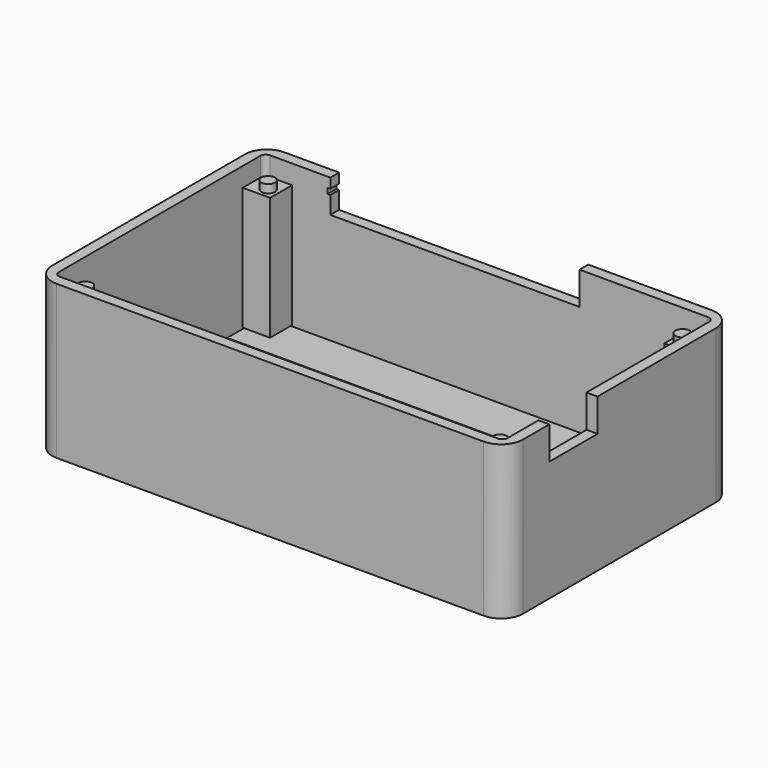
from build123d import *

# Parameters (mm, degrees)
BOX004_W          = 5
BOX004_H          = 5
BOX004_DEPTH      = 22.5
CYLINDER_R        = 1.25
CYLINDER_DEPTH    = 2
BOX006_W          = 5
BOX006_H          = 5
BOX006_DEPTH      = 22.5
BOX005_W          = 5
BOX005_H          = 5
BOX005_DEPTH      = 22.5
CYLINDER001_R     = 1.25
CYLINDER001_DEPTH = 2
BOX007_W          = 5
BOX007_H          = 5
BOX007_DEPTH      = 22.5
CYLINDER002_R     = 1.3
CYLINDER002_DEPTH = 2
CYLINDER003_R     = 1.3
CYLINDER003_DEPTH = 2
CYLINDER004_R     = 1.4
CYLINDER004_DEPTH = 1.4
BOX021_W          = 76
BOX021_H          = 2
BOX021_DEPTH      = 3
BOX020_W          = 76
BOX020_H          = 2
BOX020_DEPTH      = 3
BOX016_W          = 0.5
BOX016_H          = 11
BOX016_DEPTH      = 1
BOX015_W          = 2
BOX015_H          = 11
BOX015_DEPTH      = 6
BOX019_W          = 1
BOX019_H          = 2
BOX019_DEPTH      = 1
BOX014_W          = 45.5
BOX014_H          = 2
BOX014_DEPTH      = 6
BOX018_W          = 82
BOX018_H          = 48
BOX018_DEPTH      = 28
FILLET010_R       = 1
BOX017_W          = 86
BOX017_H          = 52
BOX017_DEPTH      = 28
FILLET009_R       = 4


with BuildPart() as column1:
    # Box004 → Box004 (new body)
    with BuildSketch(Plane(origin=(-36, 19, 9.5), x_dir=(-1, 0, 0), z_dir=(0, 0, -1))):
        with Locations((2.5, 2.5)):
            Rectangle(BOX004_W, BOX004_H)
    extrude(amount=BOX004_DEPTH)


with BuildPart() as cylinder:
    # Cylinder → Cylinder (new body)
    with BuildSketch(Plane(origin=(-37.85, 20.85, 11), x_dir=(-1, 0, 0), z_dir=(0, 0, -1))):
        Circle(CYLINDER_R)
    extrude(amount=CYLINDER_DEPTH)


with BuildPart() as column3:
    # Box006 → Box006 (new body)
    with BuildSketch(Plane(origin=(-36, -24, 9.5), x_dir=(-1, 0, 0), z_dir=(0, 0, -1))):
        with Locations((2.5, 2.5)):
            Rectangle(BOX006_W, BOX006_H)
    extrude(amount=BOX006_DEPTH)


with BuildPart() as column2:
    # Box005 → Box005 (new body)
    with BuildSketch(Plane(origin=(41, 19, 9.5), x_dir=(-1, 0, 0), z_dir=(0, 0, -1))):
        with Locations((2.5, 2.5)):
            Rectangle(BOX005_W, BOX005_H)
    extrude(amount=BOX005_DEPTH)


with BuildPart() as cylinder001:
    # Cylinder001 → Cylinder001 (new body)
    with BuildSketch(Plane(origin=(-37.85, -20.85, 11), x_dir=(-1, 0, 0), z_dir=(0, 0, -1))):
        Circle(CYLINDER001_R)
    extrude(amount=CYLINDER001_DEPTH)


with BuildPart() as column4:
    # Box007 → Box007 (new body)
    with BuildSketch(Plane(origin=(41, -24, 9.5), x_dir=(-1, 0, 0), z_dir=(0, 0, -1))):
        with Locations((2.5, 2.5)):
            Rectangle(BOX007_W, BOX007_H)
    extrude(amount=BOX007_DEPTH)


with BuildPart() as cylinder002:
    # Cylinder002 → Cylinder002 (new body)
    with BuildSketch(Plane(origin=(37.85, 20.85, 11), x_dir=(-1, 0, 0), z_dir=(0, 0, -1))):
        Circle(CYLINDER002_R)
    extrude(amount=CYLINDER002_DEPTH)


with BuildPart() as cylinder003:
    # Cylinder003 → Cylinder003 (new body)
    with BuildSketch(Plane(origin=(37.85, -20.85, 11), x_dir=(-1, 0, 0), z_dir=(0, 0, -1))):
        Circle(CYLINDER003_R)
    extrude(amount=CYLINDER003_DEPTH)


with BuildPart() as zylinder:
    # Cylinder004 → Cylinder004 (new body)
    with BuildSketch(Plane(origin=(0, -1.2, -13.3), x_dir=(1, 0, 0), z_dir=(0, 0, 1))):
        Circle(CYLINDER004_R)
    extrude(amount=CYLINDER004_DEPTH)


with BuildPart() as obj1:
    # Box021 → Box021 (new body)
    with BuildSketch(Plane(origin=(-37, 9.1, -13.3), x_dir=(1, 0, 0), z_dir=(0, 0, 1))):
        with Locations((38, 1)):
            Rectangle(BOX021_W, BOX021_H)
    extrude(amount=BOX021_DEPTH)


with BuildPart() as obj2:
    # Box020 → Box020 (new body)
    with BuildSketch(Plane(origin=(-37, -14, -13.3), x_dir=(1, 0, 0), z_dir=(0, 0, 1))):
        with Locations((38, 1)):
            Rectangle(BOX020_W, BOX020_H)
    extrude(amount=BOX020_DEPTH)


with BuildPart() as cliphole001:
    # Box016 → Box016 (new body)
    with BuildSketch(Plane(origin=(41, 3.5, 9), x_dir=(1, 0, 0), z_dir=(0, 0, 1))):
        with Locations((0.25, 5.5)):
            Rectangle(BOX016_W, BOX016_H)
    extrude(amount=BOX016_DEPTH)


with BuildPart() as usb_cut001:
    # Box015 → Box015 (new body)
    with BuildSketch(Plane(origin=(41, -16, 7), x_dir=(1, 0, 0), z_dir=(0, 0, 1))):
        with Locations((1, 5.5)):
            Rectangle(BOX015_W, BOX015_H)
    extrude(amount=BOX015_DEPTH)


with BuildPart() as lidholder:
    # Box019 → Box019 (new body)
    with BuildSketch(Plane(origin=(-29.5, 24, 10.2), x_dir=(1, 0, 0), z_dir=(0, 0, 1))):
        with Locations((0.5, 1)):
            Rectangle(BOX019_W, BOX019_H)
    extrude(amount=BOX019_DEPTH)


with BuildPart() as fusion:
    # Box014 → Box014 (new body)
    with BuildSketch(Plane(origin=(-29, 24, 7), x_dir=(1, 0, 0), z_dir=(0, 0, 1))):
        with Locations((22.75, 1)):
            Rectangle(BOX014_W, BOX014_H)
    extrude(amount=BOX014_DEPTH)

    # Fusion: union LidHolder
    add(lidholder.part)


with BuildPart() as fillet010:
    # Box018 → Box018 (new body)
    with BuildSketch(Plane(origin=(-41, -24, -15), x_dir=(1, 0, 0), z_dir=(0, 0, 1))):
        with Locations((41, 24)):
            Rectangle(BOX018_W, BOX018_H)
    extrude(amount=BOX018_DEPTH)

    # Fillet010
    fillet010_edges = [fillet010.edges().sort_by_distance(p)[0] for p in [
        (-41, -24, -1),
        (-41, 24, -1),
        (41, -24, -1),
        (41, 24, -1),
    ]]
    fillet(fillet010_edges, radius=FILLET010_R)


with BuildPart() as fillet010_1:
    # Fillet010 placement: moved
    add(fillet010.part.moved(Location((0, 0, 1.8))))


with BuildPart() as cut013:
    # Box017 → Box017 (new body)
    with BuildSketch(Plane(origin=(-43, -26, -15), x_dir=(1, 0, 0), z_dir=(0, 0, 1))):
        with Locations((43, 26)):
            Rectangle(BOX017_W, BOX017_H)
    extrude(amount=BOX017_DEPTH)

    # Fillet009
    fillet009_edges = [cut013.edges().sort_by_distance(p)[0] for p in [
        (-43, -26, -1),
        (-43, 26, -1),
        (43, -26, -1),
        (43, 26, -1),
    ]]
    fillet(fillet009_edges, radius=FILLET009_R)

    # Cut011: cut Fillet010
    add(fillet010_1.part, mode=Mode.SUBTRACT)

    # Cut: cut Fusion
    add(fusion.part, mode=Mode.SUBTRACT)

    # Cut012: cut USB Cut001
    add(usb_cut001.part, mode=Mode.SUBTRACT)

    # Cut013: cut Cliphole001
    add(cliphole001.part, mode=Mode.SUBTRACT)


solid = Compound([column1.part, cylinder.part, column3.part, column2.part, cylinder001.part, column4.part, cylinder002.part, cylinder003.part, zylinder.part, obj1.part, obj2.part, cut013.part])
